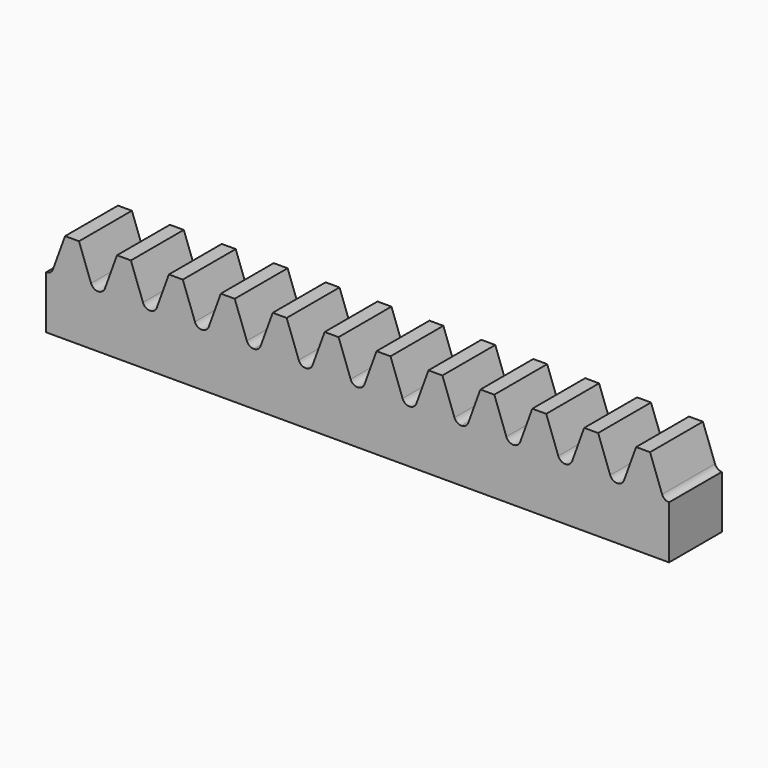
from build123d import *

# Parameters (mm, degrees)
F1_DEPTH = 5


with BuildPart() as f1:
    # F0 (on Front) → F1 (new body, symmetric)
    with BuildSketch(Plane.XZ):
        with BuildLine():
            Line((0, 8), (0, 0))
            Line((0, 0), (31.415927, 0))
            Line((31.415927, 0), (31.415927, 8))
            ThreePointArc((31.415927, 8), (30.776503, 8.20161), (30.368356, 8.733517))
            Line((30.368356, 8.733517), (28.542506, 13.75))
            Line((28.542506, 13.75), (26.435366, 13.75))
            Line((26.435366, 13.75), (24.609515, 8.733517))
            ThreePointArc((24.609515, 8.733517), (23.561945, 8), (22.514375, 8.733517))
            Line((22.514375, 8.733517), (20.688524, 13.75))
            Line((20.688524, 13.75), (18.581384, 13.75))
            Line((18.581384, 13.75), (16.755534, 8.733517))
            ThreePointArc((16.755534, 8.733517), (15.707963, 8), (14.660393, 8.733517))
            Line((14.660393, 8.733517), (12.834542, 13.75))
            Line((12.834542, 13.75), (10.727403, 13.75))
            Line((10.727403, 13.75), (8.901552, 8.733517))
            ThreePointArc((8.901552, 8.733517), (7.853982, 8), (6.806411, 8.733517))
            Line((6.806411, 8.733517), (4.980561, 13.75))
            Line((4.980561, 13.75), (2.873421, 13.75))
            Line((2.873421, 13.75), (1.04757, 8.733517))
            ThreePointArc((1.04757, 8.733517), (0.639424, 8.20161), (0, 8))
        make_face()
        with BuildLine():
            Line((31.415927, 8), (31.415927, 0))
            Line((31.415927, 0), (62.831853, 0))
            Line((62.831853, 0), (62.831853, 8))
            ThreePointArc((62.831853, 8), (62.192429, 8.20161), (61.784283, 8.733517))
            Line((61.784283, 8.733517), (59.958432, 13.75))
            Line((59.958432, 13.75), (57.851292, 13.75))
            Line((57.851292, 13.75), (56.025442, 8.733517))
            ThreePointArc((56.025442, 8.733517), (54.977871, 8), (53.930301, 8.733517))
            Line((53.930301, 8.733517), (52.10445, 13.75))
            Line((52.10445, 13.75), (49.997311, 13.75))
            Line((49.997311, 13.75), (48.17146, 8.733517))
            ThreePointArc((48.17146, 8.733517), (47.12389, 8), (46.076319, 8.733517))
            Line((46.076319, 8.733517), (44.250469, 13.75))
            Line((44.250469, 13.75), (42.143329, 13.75))
            Line((42.143329, 13.75), (40.317479, 8.733517))
            ThreePointArc((40.317479, 8.733517), (39.269908, 8), (38.222338, 8.733517))
            Line((38.222338, 8.733517), (36.396487, 13.75))
            Line((36.396487, 13.75), (34.289348, 13.75))
            Line((34.289348, 13.75), (32.463497, 8.733517))
            ThreePointArc((32.463497, 8.733517), (32.05535, 8.20161), (31.415927, 8))
        make_face()
        with BuildLine():
            Line((62.831853, 8), (62.831853, 0))
            Line((62.831853, 0), (94.24778, 0))
            Line((94.24778, 0), (94.24778, 8))
            ThreePointArc((94.24778, 8), (93.608356, 8.20161), (93.200209, 8.733517))
            Line((93.200209, 8.733517), (91.374359, 13.75))
            Line((91.374359, 13.75), (89.267219, 13.75))
            Line((89.267219, 13.75), (87.441368, 8.733517))
            ThreePointArc((87.441368, 8.733517), (86.393798, 8), (85.346228, 8.733517))
            Line((85.346228, 8.733517), (83.520377, 13.75))
            Line((83.520377, 13.75), (81.413237, 13.75))
            Line((81.413237, 13.75), (79.587387, 8.733517))
            ThreePointArc((79.587387, 8.733517), (78.539816, 8), (77.492246, 8.733517))
            Line((77.492246, 8.733517), (75.666395, 13.75))
            Line((75.666395, 13.75), (73.559256, 13.75))
            Line((73.559256, 13.75), (71.733405, 8.733517))
            ThreePointArc((71.733405, 8.733517), (70.685835, 8), (69.638264, 8.733517))
            Line((69.638264, 8.733517), (67.812414, 13.75))
            Line((67.812414, 13.75), (65.705274, 13.75))
            Line((65.705274, 13.75), (63.879423, 8.733517))
            ThreePointArc((63.879423, 8.733517), (63.471277, 8.20161), (62.831853, 8))
        make_face()
    extrude(amount=F1_DEPTH, both=True)


solid = f1.part
